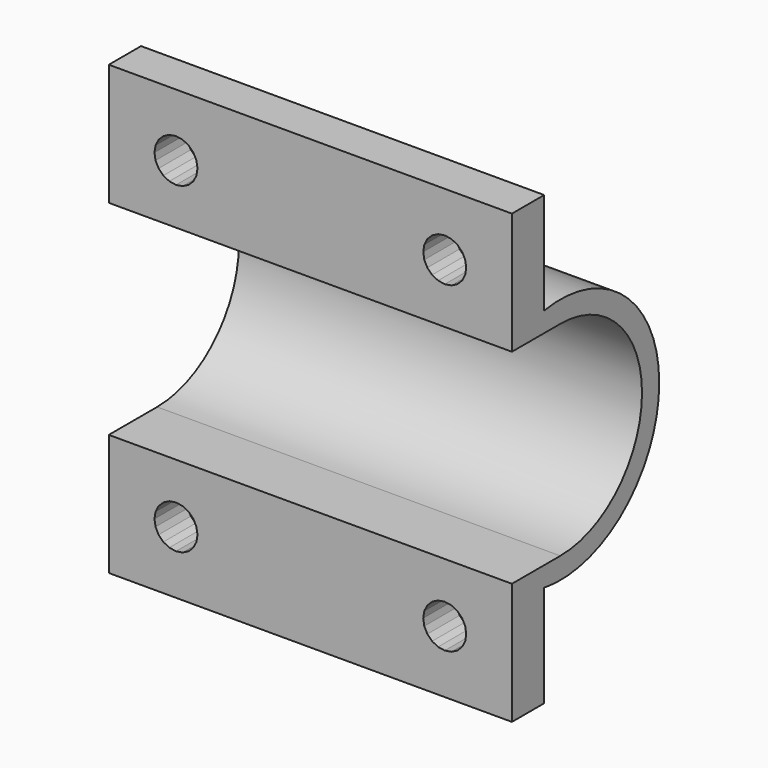
from build123d import *

# Parameters (mm, degrees)
PRISM062_DEPTH                = 10
PRISM062_PITCH_ANGLE          = 90
PRISM063_DEPTH                = 10
PRISM063_PITCH_ANGLE          = 90
PRISM064_DEPTH                = 10
PRISM064_PITCH_ANGLE          = 90
PRISM065_DEPTH                = 10
PRISM065_PITCH_ANGLE          = 90
CUBE070_W                     = 5
CUBE070_H                     = 35
CUBE070_DEPTH                 = 32
CUBE069_W                     = 16
CUBE069_H                     = 15.2
CUBE069_DEPTH                 = 30
CUBE065_W                     = 3
CUBE065_H                     = 11.7
CUBE065_DEPTH                 = 30
CUBE066_W                     = 3
CUBE066_H                     = 11.7
CUBE066_DEPTH                 = 30
CUBE067_W                     = 1.6
CUBE067_H                     = 1.6
CUBE067_DEPTH                 = 30
CUBE068_W                     = 1.6
CUBE068_H                     = 1.6
CUBE068_DEPTH                 = 30
CYLINDER017_R                 = 7.6
CYLINDER017_DEPTH             = 30
CYLINDER016_R                 = 9.2
CYLINDER016_DEPTH             = 30
DIFFERENCE046_ROLL_ANGLE      = 90
DIFFERENCE046_PLACEMENT_ANGLE = 90


with BuildPart() as prism062:
    # prism062 → prism062 (new body)
    with BuildSketch(Plane.XY):
        Polygon((1.6, 0), (1.52169, 0.494427), (1.294427, 0.940456), (0.940456, 1.294427), (0.494427, 1.52169), (0, 1.6), (-0.494427, 1.52169), (-0.940456, 1.294427), (-1.294427, 0.940456), (-1.52169, 0.494427), (-1.6, 0), (-1.52169, -0.494427), (-1.294427, -0.940456), (-0.940456, -1.294427), (-0.494427, -1.52169), (0, -1.6), (0.494427, -1.52169), (0.940456, -1.294427), (1.294427, -0.940456), (1.52169, -0.494427), align=None)
    extrude(amount=PRISM062_DEPTH)


with BuildPart() as prism062_1:
    # prism062 pitch: moved
    add(prism062.part.rotate(Axis((0, 0, 0), (0, 1, 0)), PRISM062_PITCH_ANGLE))


with BuildPart() as prism062_2:
    # prism062 placement: moved
    add(prism062_1.part.moved(Location((-10, 12, 10))))


with BuildPart() as prism063:
    # prism063 → prism063 (new body)
    with BuildSketch(Plane.XY):
        Polygon((1.6, 0), (1.52169, 0.494427), (1.294427, 0.940456), (0.940456, 1.294427), (0.494427, 1.52169), (0, 1.6), (-0.494427, 1.52169), (-0.940456, 1.294427), (-1.294427, 0.940456), (-1.52169, 0.494427), (-1.6, 0), (-1.52169, -0.494427), (-1.294427, -0.940456), (-0.940456, -1.294427), (-0.494427, -1.52169), (0, -1.6), (0.494427, -1.52169), (0.940456, -1.294427), (1.294427, -0.940456), (1.52169, -0.494427), align=None)
    extrude(amount=PRISM063_DEPTH)


with BuildPart() as prism063_1:
    # prism063 pitch: moved
    add(prism063.part.rotate(Axis((0, 0, 0), (0, 1, 0)), PRISM063_PITCH_ANGLE))


with BuildPart() as prism063_2:
    # prism063 placement: moved
    add(prism063_1.part.moved(Location((-10, 12, -10))))


with BuildPart() as prism064:
    # prism064 → prism064 (new body)
    with BuildSketch(Plane.XY):
        Polygon((1.6, 0), (1.52169, 0.494427), (1.294427, 0.940456), (0.940456, 1.294427), (0.494427, 1.52169), (0, 1.6), (-0.494427, 1.52169), (-0.940456, 1.294427), (-1.294427, 0.940456), (-1.52169, 0.494427), (-1.6, 0), (-1.52169, -0.494427), (-1.294427, -0.940456), (-0.940456, -1.294427), (-0.494427, -1.52169), (0, -1.6), (0.494427, -1.52169), (0.940456, -1.294427), (1.294427, -0.940456), (1.52169, -0.494427), align=None)
    extrude(amount=PRISM064_DEPTH)


with BuildPart() as prism064_1:
    # prism064 pitch: moved
    add(prism064.part.rotate(Axis((0, 0, 0), (0, 1, 0)), PRISM064_PITCH_ANGLE))


with BuildPart() as prism064_2:
    # prism064 placement: moved
    add(prism064_1.part.moved(Location((-10, -12, 10))))


with BuildPart() as prism065:
    # prism065 → prism065 (new body)
    with BuildSketch(Plane.XY):
        Polygon((1.6, 0), (1.52169, 0.494427), (1.294427, 0.940456), (0.940456, 1.294427), (0.494427, 1.52169), (0, 1.6), (-0.494427, 1.52169), (-0.940456, 1.294427), (-1.294427, 0.940456), (-1.52169, 0.494427), (-1.6, 0), (-1.52169, -0.494427), (-1.294427, -0.940456), (-0.940456, -1.294427), (-0.494427, -1.52169), (0, -1.6), (0.494427, -1.52169), (0.940456, -1.294427), (1.294427, -0.940456), (1.52169, -0.494427), align=None)
    extrude(amount=PRISM065_DEPTH)


with BuildPart() as prism065_1:
    # prism065 pitch: moved
    add(prism065.part.rotate(Axis((0, 0, 0), (0, 1, 0)), PRISM065_PITCH_ANGLE))


with BuildPart() as prism065_2:
    # prism065 placement: moved
    add(prism065_1.part.moved(Location((-10, -12, -10))))


with BuildPart() as cube070:
    # cube070 → cube070 (new body)
    with BuildSketch(Plane(origin=(-9.5, -17.5, -16), x_dir=(1, 0, 0), z_dir=(0, 0, 1))):
        with Locations((2.5, 17.5)):
            Rectangle(CUBE070_W, CUBE070_H)
    extrude(amount=CUBE070_DEPTH)


with BuildPart() as union034:
    # cube069 → cube069 (new body)
    with BuildSketch(Plane(origin=(-16, -7.6, -15), x_dir=(1, 0, 0), z_dir=(0, 0, 1))):
        with Locations((8, 7.6)):
            Rectangle(CUBE069_W, CUBE069_H)
    extrude(amount=CUBE069_DEPTH)

    # union034: union prism062, prism063, prism064, prism065, cube070
    add(prism062_2.part)
    add(prism063_2.part)
    add(prism064_2.part)
    add(prism065_2.part)
    add(cube070.part)


with BuildPart() as cube065:
    # cube065 → cube065 (new body)
    with BuildSketch(Plane(origin=(-4.5, 4.95, -15), x_dir=(1, 0, 0), z_dir=(0, 0, 1))):
        with Locations((1.5, 5.85)):
            Rectangle(CUBE065_W, CUBE065_H)
    extrude(amount=CUBE065_DEPTH)


with BuildPart() as cube066:
    # cube066 → cube066 (new body)
    with BuildSketch(Plane(origin=(-4.5, -16.65, -15), x_dir=(1, 0, 0), z_dir=(0, 0, 1))):
        with Locations((1.5, 5.85)):
            Rectangle(CUBE066_W, CUBE066_H)
    extrude(amount=CUBE066_DEPTH)


with BuildPart() as cube067:
    # cube067 → cube067 (new body)
    with BuildSketch(Plane(origin=(-4.6, 7.5, -15), x_dir=(1, 0, 0), z_dir=(0, 0, 1))):
        with Locations((0.8, 0.8)):
            Rectangle(CUBE067_W, CUBE067_H)
    extrude(amount=CUBE067_DEPTH)


with BuildPart() as cube068:
    # cube068 → cube068 (new body)
    with BuildSketch(Plane(origin=(-4.6, -9.1, -15), x_dir=(1, 0, 0), z_dir=(0, 0, 1))):
        with Locations((0.8, 0.8)):
            Rectangle(CUBE068_W, CUBE068_H)
    extrude(amount=CUBE068_DEPTH)


with BuildPart() as cylinder017:
    # cylinder017 → cylinder017 (new body)
    with BuildSketch(Plane.XY.offset(-15)):
        Circle(CYLINDER017_R)
    extrude(amount=CYLINDER017_DEPTH)


with BuildPart() as difference046:
    # cylinder016 → cylinder016 (new body)
    with BuildSketch(Plane.XY.offset(-15)):
        Circle(CYLINDER016_R)
    extrude(amount=CYLINDER016_DEPTH)

    # difference045: cut cylinder017
    add(cylinder017.part, mode=Mode.SUBTRACT)

    # union033: union cube065, cube066, cube067, cube068
    add(cube065.part)
    add(cube066.part)
    add(cube067.part)
    add(cube068.part)

    # difference046: cut union034
    add(union034.part, mode=Mode.SUBTRACT)


with BuildPart() as difference046_1:
    # difference046 roll: moved
    add(difference046.part.rotate(Axis((0, 0, 0), (1, 0, 0)), DIFFERENCE046_ROLL_ANGLE))


with BuildPart() as difference046_2:
    # difference046 placement: moved
    add(difference046_1.part.moved(Location((298, 252, 190))).rotate(Axis((298, 252, 190), (0, 0, 1)), DIFFERENCE046_PLACEMENT_ANGLE))


solid = difference046_2.part
